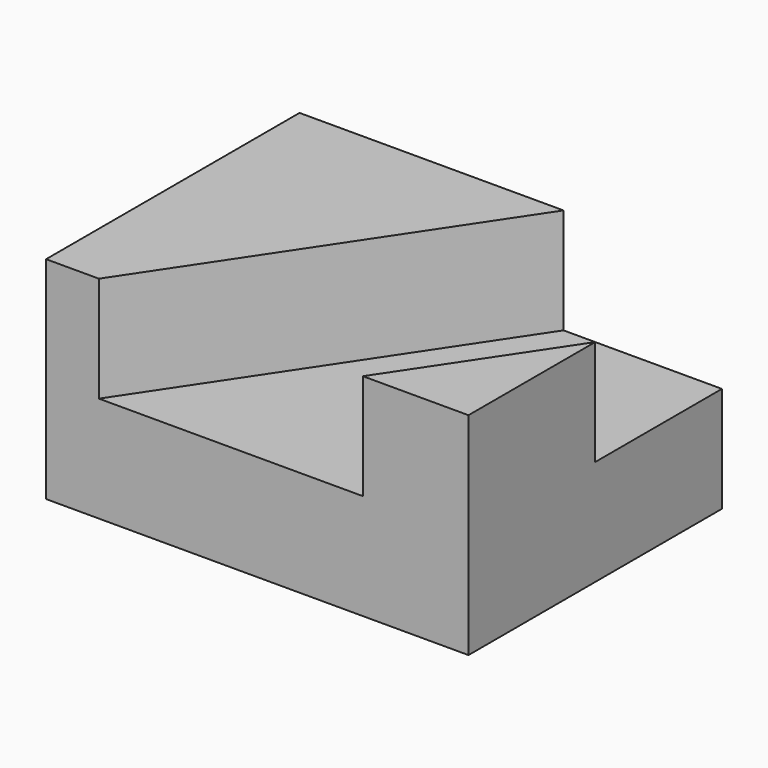
from build123d import *

# Parameters (mm, degrees)
F0_W     = 38.1
F0_H     = 25.4
F1_DEPTH = 50.8
F3_DEPTH = 25.4
F4_DEPTH = 12.7


with BuildPart() as f1:
    # F0 (on Right) → F1 (new body)
    with BuildSketch(Plane.YZ):
        with Locations((19.05, 12.7)):
            Rectangle(F0_W, F0_H)
    extrude(amount=F1_DEPTH)

    # F2 (on face) → F3 (cut)
    with BuildSketch(Plane.XY.offset(25.4)):
        Polygon((31.75, 38.1), (6.35, 0), (38.1, 0), (50.8, 19.05), (50.8, 38.1), align=None)
    extrude(amount=F3_DEPTH, mode=Mode.SUBTRACT)

    # F2 (on face) → F4 (cut)
    with BuildSketch(Plane.XY.offset(25.4)):
        Polygon((31.75, 38.1), (6.35, 0), (38.1, 0), (50.8, 19.05), (50.8, 38.1), align=None)
    extrude(amount=-F4_DEPTH, mode=Mode.SUBTRACT)


solid = f1.part
